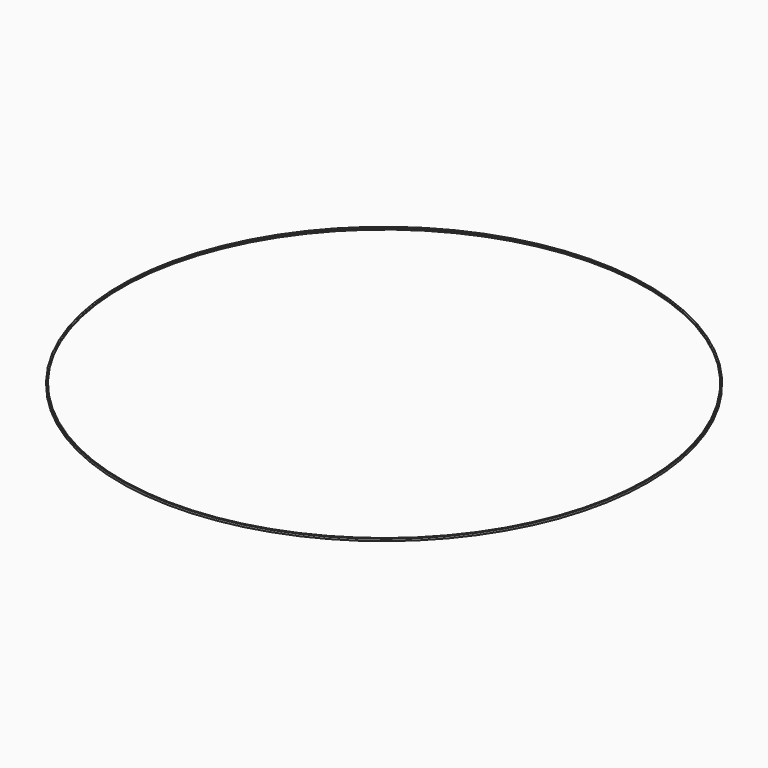
from build123d import *


with BuildPart() as f2:
    # F2: sweep along a path in F1
    with BuildLine(Plane.XY) as f2_path:
        CenterArc((3043.809423, 0), 3045, 0, 360)
    # F0 (on Front) → F2 (sweep)
    with BuildSketch(Plane.XZ):
        Polygon((16.794275, 11.384281), (0.01, 11.384281), (0.01, -12.385881), (11.001622, -12.385881), (11.001622, -10.419134), (11.001622, -9.070487), (9.33952, -9.070487), (9.33952, -10.419134), (1.884766, -10.419134), (1.884766, 4.380418), (9.33952, 4.380418), (9.33952, 3.463338), (11.001622, 3.463338), (11.001622, 4.380418), (16.794275, 4.380418), (16.794275, 5.944849), (1.884766, 5.944849), (1.884766, 7.544847), (1.884766, 9.648737), (16.794275, 9.648737), align=None)
    sweep(path=f2_path.line)


solid = f2.part
